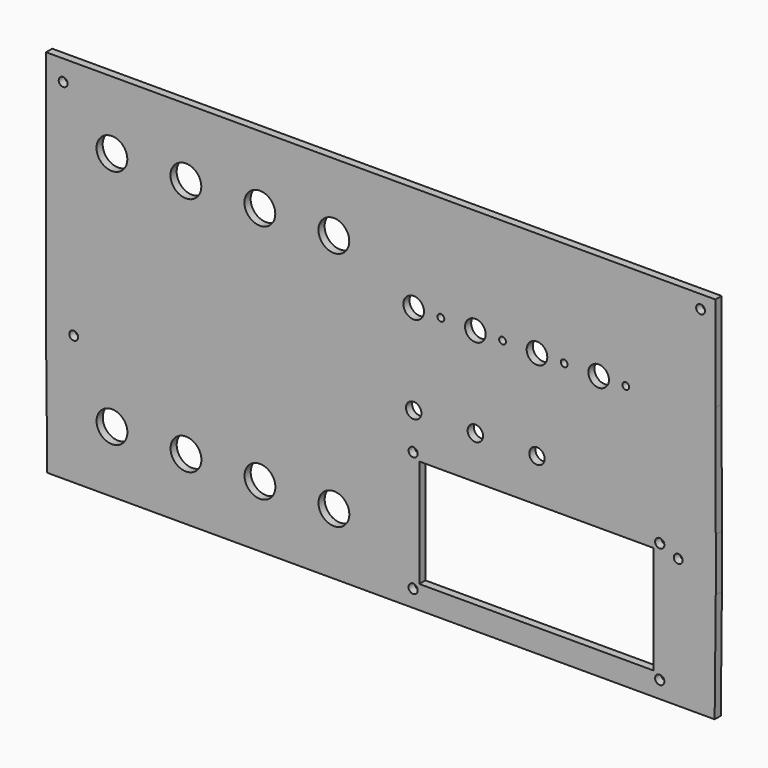
from build123d import *

# Parameters (mm, degrees)
F0_R     = 6.35
F0_R_2   = 1.8288
F0_R_3   = 3.175
F0_R_4   = 4.250004
F0_R_5   = 1.399997
F1_DEPTH = 3.175
F2_R     = 6.35
F2_R_2   = 3.175
F2_W     = 96.52
F2_H     = 44.45
F2_R_3   = 1.905
F3_DEPTH = 25.4


with BuildPart() as f1:
    # F0 (on Front) → F1 (new body)
    with BuildSketch(Plane.XZ):
        Polygon((137.8331, 76.2), (-137.9601, 76.2), (-137.9474, 37.3888), (-137.9347, -8.9916), (-137.9347, -30.9118), (-137.4775, -76.2), (137.5029, -76.2), (137.9601, -30.9118), (137.9601, -8.9916), (137.8204, 36.957), align=None)
        with Locations((-110.804731, -50.8)):
            Circle(F0_R, mode=Mode.SUBTRACT)
        with Locations((-80.324731, -50.8)):
            Circle(F0_R, mode=Mode.SUBTRACT)
        with Locations((-49.844731, -50.8)):
            Circle(F0_R, mode=Mode.SUBTRACT)
        with Locations((-19.364731, -50.8)):
            Circle(F0_R, mode=Mode.SUBTRACT)
        with Locations((-126.5809, -22.8854)):
            Circle(F0_R_2, mode=Mode.SUBTRACT)
        with Locations((13.5001, -4.4958)):
            Circle(F0_R_3, mode=Mode.SUBTRACT)
        with Locations((38.9001, -4.4958)):
            Circle(F0_R_3, mode=Mode.SUBTRACT)
        with Locations((122.4915, -22.8854)):
            Circle(F0_R_2, mode=Mode.SUBTRACT)
        with Locations((-80.357142, 48.26)):
            Circle(F0_R, mode=Mode.SUBTRACT)
        with Locations((-130.9243, 67.691)):
            Circle(F0_R_2, mode=Mode.SUBTRACT)
        with Locations((-49.877142, 48.26)):
            Circle(F0_R, mode=Mode.SUBTRACT)
        with Locations((13.5001, 32.778471)):
            Circle(F0_R_4, mode=Mode.SUBTRACT)
        with Locations((24.700103, 32.778471)):
            Circle(F0_R_5, mode=Mode.SUBTRACT)
        with Locations((38.9001, 32.778471)):
            Circle(F0_R_4, mode=Mode.SUBTRACT)
        with Locations((50.100103, 32.778471)):
            Circle(F0_R_5, mode=Mode.SUBTRACT)
        with Locations((64.3001, 32.778471)):
            Circle(F0_R_4, mode=Mode.SUBTRACT)
        with Locations((75.500103, 32.778471)):
            Circle(F0_R_5, mode=Mode.SUBTRACT)
        with Locations((89.7001, 32.778471)):
            Circle(F0_R_4, mode=Mode.SUBTRACT)
        with Locations((100.900103, 32.778471)):
            Circle(F0_R_5, mode=Mode.SUBTRACT)
        with Locations((131.7117, 70.6628)):
            Circle(F0_R_2, mode=Mode.SUBTRACT)
    extrude(amount=F1_DEPTH)

    # F2 (on face) → F3 (cut)
    with BuildSketch(Plane.XZ.offset(3.175)):
        with Locations((-110.837142, 48.26)):
            Circle(F2_R)
        with Locations((-19.397142, 48.26)):
            Circle(F2_R)
        with Locations((64.3001, -4.4958)):
            Circle(F2_R_2)
        with Locations((64.0715, -44.45)):
            Rectangle(F2_W, F2_H)
        with Locations((13.2715, -69.215)):
            Circle(F2_R_3)
        with Locations((13.2715, -19.685)):
            Circle(F2_R_3)
        with Locations((114.8715, -69.215)):
            Circle(F2_R_3)
        with Locations((114.8715, -19.685)):
            Circle(F2_R_3)
    extrude(amount=-F3_DEPTH, mode=Mode.SUBTRACT)


solid = f1.part
